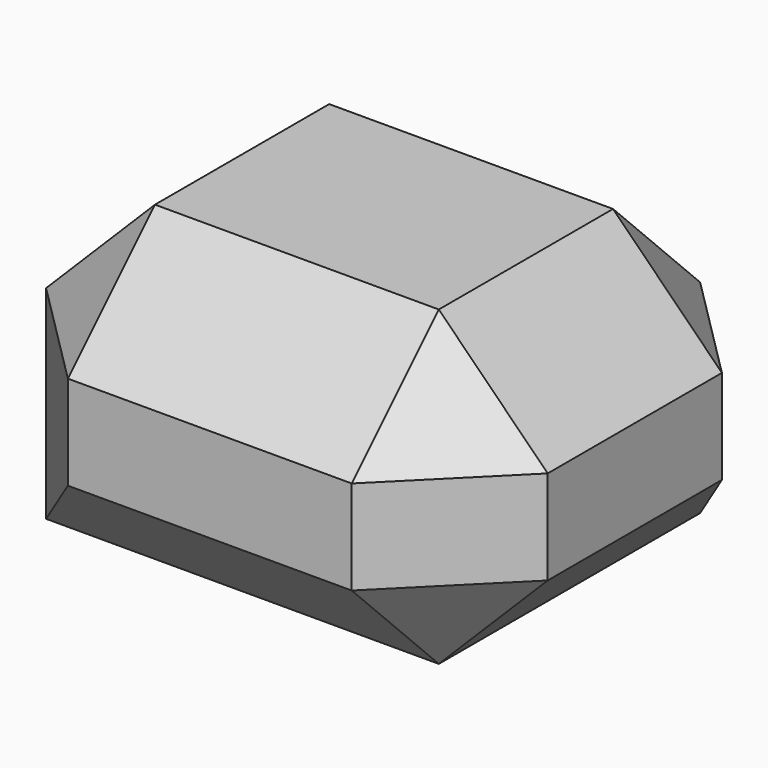
from build123d import *

# Parameters (mm, degrees)
F0_W     = 58.506665
F0_H     = 36.391646
F1_DEPTH = 50.8
F2_SIZE  = 12.7


with BuildPart() as f1:
    # F0 (on Front) → F1 (new body)
    with BuildSketch(Plane.XZ):
        with Locations((-47.321567, 41.978136)):
            Rectangle(F0_W, F0_H)
    extrude(amount=F1_DEPTH)

    # F2
    f2_edges = [f1.edges().sort_by_distance(p)[0] for p in [
        (-18.068234, -25.4, 60.173959),
        (-76.574899, -25.4, 60.173959),
        (-47.321566, 0, 60.173959),
        (-47.321566, -50.8, 60.173959),
        (-76.574899, -50.8, 41.978136),
        (-47.321566, -50.8, 23.782313),
        (-18.068234, -50.8, 41.978136),
        (-18.068234, -25.4, 23.782313),
        (-18.068234, 0, 41.978136),
    ]]
    chamfer(f2_edges, length=F2_SIZE)


solid = f1.part
